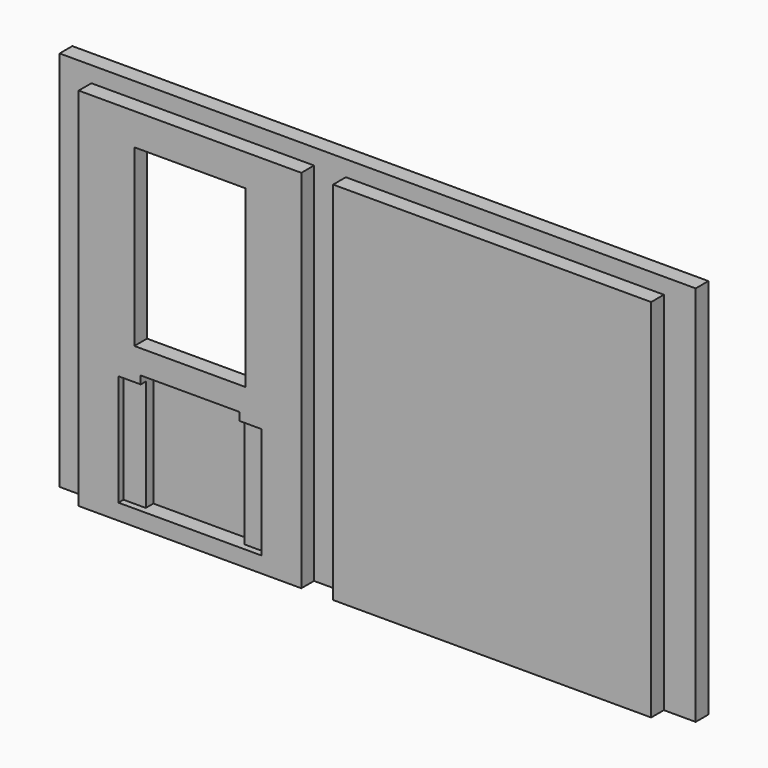
from build123d import *

# Parameters (mm, degrees)
F1_DEPTH = 5
F0_W     = 70
F0_H     = 115
F0_W_2   = 45
F0_H_2   = 65
F0_W_3   = 100
F2_DEPTH = 10
F0_W_4   = 35
F0_H_3   = 55
F3_DEPTH = 10
F4_DEPTH = 5
F0_W_5   = 7
F0_H_4   = 35
F5_DEPTH = 8
F0_W_6   = 31
F6_DEPTH = 5
F0_H_5   = 2.5
F7_DEPTH = 5


with BuildPart() as f1:
    # F0 (on Front) → F1 (new body)
    with BuildSketch(Plane.XZ):
        Polygon((100, 60), (-100, 60), (-100, -60), (-90, -60), (-90, 55), (-20, 55), (-20, -60), (-10, -60), (-10, 55), (90, 55), (90, -60), (100, -60), align=None)
    extrude(amount=F1_DEPTH)

    # F0 (on Front) → F2 (join)
    with BuildSketch(Plane.XZ):
        with Locations((-55, -2.5)):
            Rectangle(F0_W, F0_H)
        Polygon((-70.5, -55), (-77.5, -55), (-77.5, -20), (-70.5, -20), (-70.5, -17.5), (-39.5, -17.5), (-39.5, -20), (-32.5, -20), (-32.5, -55), (-39.5, -55), align=None, mode=Mode.SUBTRACT)
        with Locations((-55, 17.5)):
            Rectangle(F0_W_2, F0_H_2, mode=Mode.SUBTRACT)
        with Locations((40, -2.5)):
            Rectangle(F0_W_3, F0_H)
    extrude(amount=F2_DEPTH)

    # F0 (on Front) → F3 (join)
    with BuildSketch(Plane.XZ):
        with Locations((-55, 17.5)):
            Rectangle(F0_W_2, F0_H_2)
        with Locations((-55, 17.5)):
            Rectangle(F0_W_4, F0_H_3, mode=Mode.SUBTRACT)
    extrude(amount=F3_DEPTH)

    # F0 (on Front) → F4 (cut)
    with BuildSketch(Plane.XZ):
        with Locations((-55, 17.5)):
            Rectangle(F0_W_2, F0_H_2)
        with Locations((-55, 17.5)):
            Rectangle(F0_W_4, F0_H_3, mode=Mode.SUBTRACT)
    extrude(amount=F4_DEPTH, mode=Mode.SUBTRACT)

    # F0 (on Front) → F5 (join)
    with BuildSketch(Plane.XZ):
        with Locations((-74, -37.5)):
            Rectangle(F0_W_5, F0_H_4)
        with Locations((-36, -37.5)):
            Rectangle(F0_W_5, F0_H_4)
    extrude(amount=F5_DEPTH)

    # F0 (on Front) → F6 (join)
    with BuildSketch(Plane.XZ):
        with Locations((-55, -37.5)):
            Rectangle(F0_W_6, F0_H_4)
    extrude(amount=F6_DEPTH)

    # F0 (on Front) → F7 (join)
    with BuildSketch(Plane.XZ):
        with Locations((-55, -18.75)):
            Rectangle(F0_W_6, F0_H_5)
    extrude(amount=F7_DEPTH)


solid = f1.part
